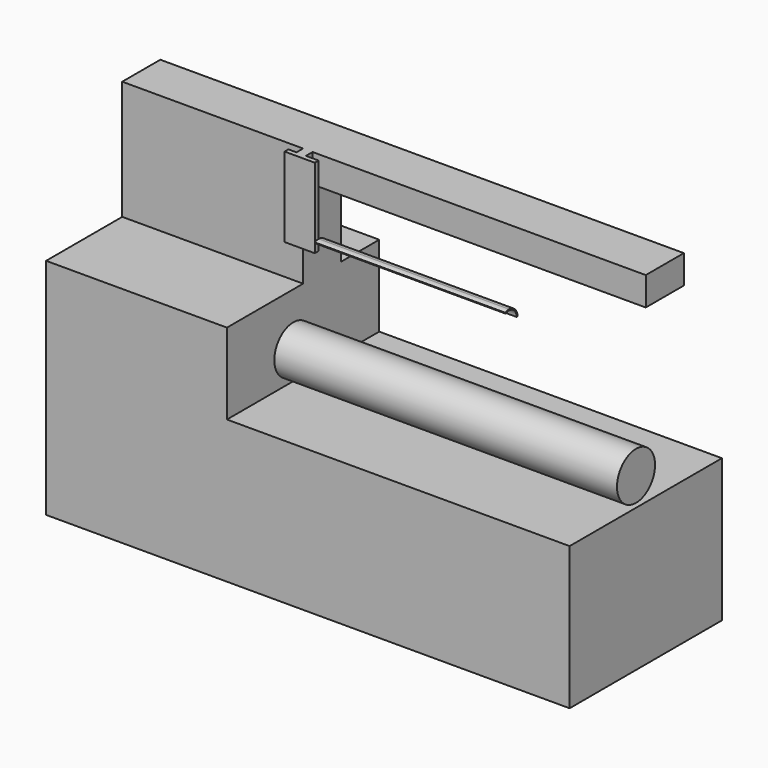
from build123d import *

# Parameters (mm, degrees)
F0_W      = 2794
F0_H      = 1828.8
F1_DEPTH  = 1016
F2_W      = 1828.8
F2_H      = 914.4
F3_DEPTH  = 1016.001
F4_W      = 2794
F4_H      = 508
F5_DEPTH  = 635
F6_W      = 2794
F6_H      = 254
F7_DEPTH  = 635
F8_R      = 127
F9_DEPTH  = 1828.8
F10_W     = 50.8
F10_H     = 152.4
F11_DEPTH = 44.45
F12_W     = 161.37141
F12_H     = 425.148166
F13_DEPTH = 25.4
F15_DEPTH = 1016


with BuildPart() as f1:
    # F0 (on Front) → F1 (new body)
    with BuildSketch(Plane.XZ):
        with Locations((1397, 914.4)):
            Rectangle(F0_W, F0_H)
    extrude(amount=-F1_DEPTH)

    # F2 (on face) → F3 (cut, through all)
    with BuildSketch(Plane.XZ):
        with Locations((1879.6, 1219.2)):
            Rectangle(F2_W, F2_H)
    extrude(amount=-F3_DEPTH, mode=Mode.SUBTRACT)

    # F4 (on face) → F5 (cut)
    with BuildSketch(Plane.XY.offset(1828.8)):
        with Locations((1397, 254)):
            Rectangle(F4_W, F4_H)
    extrude(amount=-F5_DEPTH, mode=Mode.SUBTRACT)

    # F6 (on face) → F7 (cut)
    with BuildSketch(Plane.XY.offset(1828.8)):
        with Locations((1397, 889)):
            Rectangle(F6_W, F6_H)
    extrude(amount=-F7_DEPTH, mode=Mode.SUBTRACT)

    # F8 (on face) → F9 (join)
    with BuildSketch(Plane.YZ.offset(965.2)):
        with Locations((442.956924, 911.984384)):
            Circle(F8_R)
    extrude(amount=F9_DEPTH)

    # F10 (on face) → F11 (join)
    with BuildSketch(Plane.XZ.offset(-508)):
        with Locations((990.6, 1752.6)):
            Rectangle(F10_W, F10_H)
    extrude(amount=F11_DEPTH)

    # F12 (on face) → F13 (join)
    with BuildSketch(Plane.XZ.offset(-463.55)):
        with Locations((1002.835065, 1616.225917)):
            Rectangle(F12_W, F12_H)
    extrude(amount=F13_DEPTH)

    # F14 (on face) → F15 (join)
    with BuildSketch(Plane.YZ.offset(1083.52077)):
        with BuildLine():
            Line((514.219801, 1403.651834), (520.569801, 1403.651834))
            ThreePointArc((520.569801, 1403.651834), (503.869088, 1443.970922), (463.55, 1460.671635))
            Line((463.55, 1460.671635), (463.55, 1454.321635))
            ThreePointArc((463.55, 1454.321635), (499.37896, 1439.480794), (514.219801, 1403.651834))
        make_face()
        with BuildLine():
            Line((463.55, 1454.321635), (463.55, 1460.671635))
            ThreePointArc((463.55, 1460.671635), (450.503937, 1459.159112), (438.15, 1454.701787))
            Line((438.15, 1454.701787), (440.978666, 1449.016618))
            ThreePointArc((440.978666, 1449.016618), (451.956809, 1452.977554), (463.55, 1454.321635))
        make_face()
    extrude(amount=F15_DEPTH)


solid = f1.part
